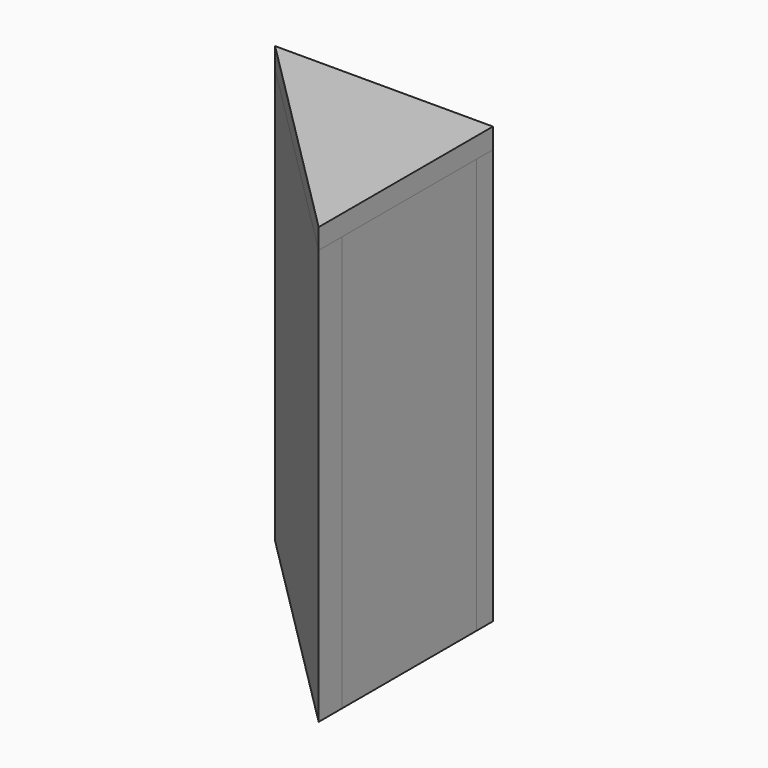
from build123d import *

# Parameters (mm, degrees)
F1_DEPTH = 387.35
F2_DEPTH = 387.35
F3_DEPTH = 387.35
F4_DEPTH = 19.05
F6_DEPTH = 19.05


with BuildPart() as f1:
    # F0 (on Top) → F1 (new body)
    with BuildSketch(Plane.XY):
        Polygon((-55.6092316368, 82.55), (-74.6592316368, 101.6), (-101.6, 101.6), (101.6, -101.6), (101.6, -74.6592316368), (82.55, -55.6092316368), align=None)
    extrude(amount=-F1_DEPTH)


with BuildPart() as f2:
    # F0 (on Top) → F2 (new body)
    with BuildSketch(Plane.XY):
        Polygon((101.6, 82.55), (101.6, 101.6), (-74.6592316368, 101.6), (-55.6092316368, 82.55), (82.55, 82.55), align=None)
    extrude(amount=-F2_DEPTH)


with BuildPart() as f3:
    # F0 (on Top) → F3 (new body)
    with BuildSketch(Plane.XY):
        Polygon((101.6, -74.6592316368), (101.6, 82.55), (82.55, 82.55), (82.55, -55.6092316368), align=None)
    extrude(amount=-F3_DEPTH)


with BuildPart() as f4:
    # F0 (on Top) → F4 (new body)
    with BuildSketch(Plane.XY):
        Polygon((101.6, 82.55), (101.6, 101.6), (-74.6592316368, 101.6), (-55.6092316368, 82.55), (82.55, 82.55), align=None)
        Polygon((-55.6092316368, 82.55), (-74.6592316368, 101.6), (-101.6, 101.6), (101.6, -101.6), (101.6, -74.6592316368), (82.55, -55.6092316368), align=None)
        Polygon((82.55, 82.55), (-55.6092316368, 82.55), (82.55, -55.6092316368), align=None)
        Polygon((101.6, -74.6592316368), (101.6, 82.55), (82.55, 82.55), (82.55, -55.6092316368), align=None)
    extrude(amount=F4_DEPTH)


with BuildPart() as f6:
    # F5 (on face) → F6 (new body)
    with BuildSketch(Plane(origin=(0, 0, -387.35), x_dir=(1, 0, 0), z_dir=(0, 0, -1))):
        Polygon((82.55, -82.55), (82.55, 55.6092316368), (-55.6092316368, -82.55), align=None)
    extrude(amount=-F6_DEPTH)


solid = Compound([f1.part, f2.part, f3.part, f4.part, f6.part])
